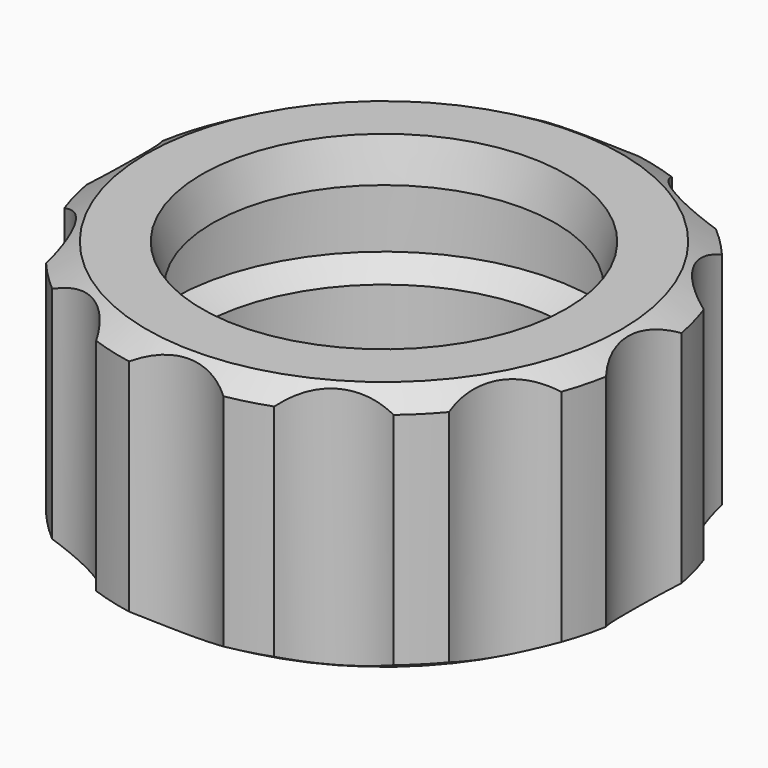
from build123d import *

# Parameters (mm, degrees)
F2_R     = 6
F3_DEPTH = 19.001


with BuildPart() as f1:
    # F0 (on Front) → F1 (revolve)
    with BuildSketch(Plane.XZ):
        Polygon((-16, 16), (-13, 16), (-13.803848, 19), (-18, 19), (-20, 17.845299), (-20, 1.154701), (-18, 0), (-16, 0), (-14, 1.154701), (-14, 8.845299), (-16, 10), align=None)
    revolve(axis=Axis((0, 0, 9.5), (0, 0, -1)))

    # F2 (on face) → F3 (cut, through all)
    with BuildSketch(Plane(origin=(0, 0, 0), x_dir=(1, 0, 0), z_dir=(0, 0, -1))):
        with Locations((24.5, 0)):
            Circle(F2_R)
        with Locations((21.217622, 12.25)):
            Circle(F2_R)
        with Locations((12.25, 21.217622)):
            Circle(F2_R)
        with Locations((0, 24.5)):
            Circle(F2_R)
        with Locations((-12.25, 21.217622)):
            Circle(F2_R)
        with Locations((-21.217622, 12.25)):
            Circle(F2_R)
        with Locations((-24.5, 0)):
            Circle(F2_R)
        with Locations((-21.217622, -12.25)):
            Circle(F2_R)
        with Locations((-12.25, -21.217622)):
            Circle(F2_R)
        with Locations((0, -24.5)):
            Circle(F2_R)
        with Locations((12.25, -21.217622)):
            Circle(F2_R)
        with Locations((21.217622, -12.25)):
            Circle(F2_R)
    extrude(amount=-F3_DEPTH, mode=Mode.SUBTRACT)


solid = f1.part
